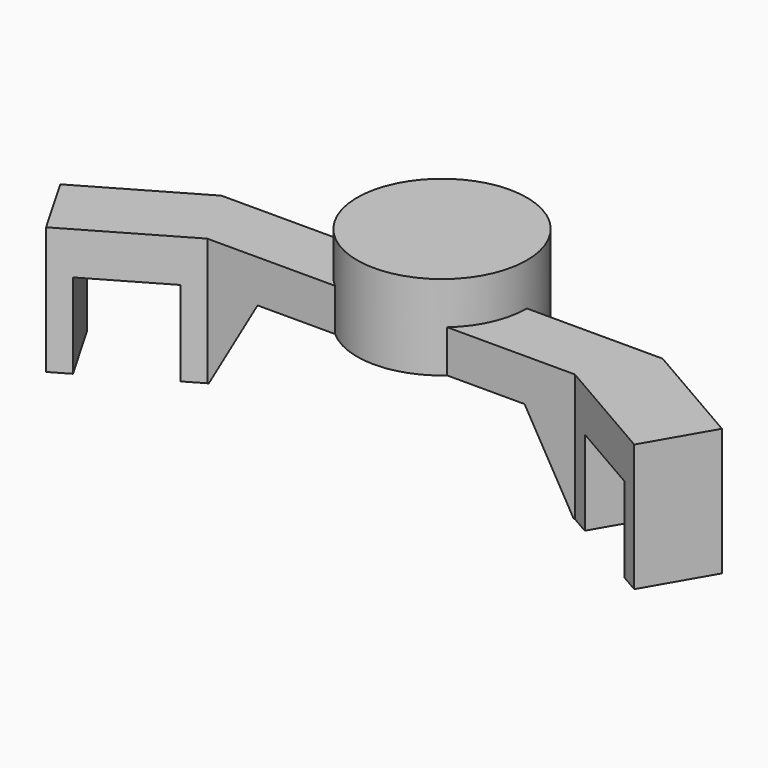
from build123d import *

# Parameters (mm, degrees)
PAD001_DEPTH = 10
PAD_DEPTH    = 30
SKETCH001_W  = 20
SKETCH001_H  = 20
POCKET_DEPTH = 50


with BuildPart() as loft_body:
    # Sketch002 → Loft section 0
    with BuildSketch(Plane.XZ.offset(-85)):
        Polygon((1, 20), (-31.452995, 20), (-43, 0), (1, 0), align=None)
    # Sketch003 → Loft section 1
    with BuildSketch(Plane(origin=(0, 100, 0), x_dir=(-1, 0, 0), z_dir=(0, 1, 0))):
        Polygon((0, 20), (40.452995, 20), (52, 0), (0, 0), align=None)
    loft()


with BuildPart() as pad001:
    # Sketch005 → Pad001 (new body, symmetric)
    with BuildSketch(Plane.XY.offset(30)):
        with BuildLine():
            ThreePointArc((0, 120), (-20, 100), (0, 80))
            Line((0, 120), (0, 80))
        make_face()
    extrude(amount=PAD001_DEPTH, both=True)


with BuildPart() as cut:
    # Sketch → Pad (new body)
    with BuildSketch(Plane.XY):
        Polygon((-51.961524, 100), (0, 100), (0.112312, 85), (-43.30127, 85), (-69.282032, 70), (-77.942286, 85), align=None)
    extrude(amount=PAD_DEPTH)

    # Sketch001 → Pocket (cut)
    with BuildSketch(Plane(origin=(-47.631397, 82.5, 0), x_dir=(0.866025, 0.5, 0), z_dir=(0.5, -0.866025, 0))):
        with Locations((-10, 10)):
            Rectangle(SKETCH001_W, SKETCH001_H)
    extrude(amount=-POCKET_DEPTH, mode=Mode.SUBTRACT)

    # Fusion: union Pad001
    add(pad001.part)

    # Cut: cut Loft body
    add(loft_body.part, mode=Mode.SUBTRACT)


with BuildPart() as fusion001:
    # Part__Mirroring: instance of Cut
    add(cut.part.mirror(Plane(origin=(0, 0, 0), x_dir=(0, -1, 0), z_dir=(1, 0, 0))))

    # Fusion001: union Cut
    add(cut.part)


solid = fusion001.part
